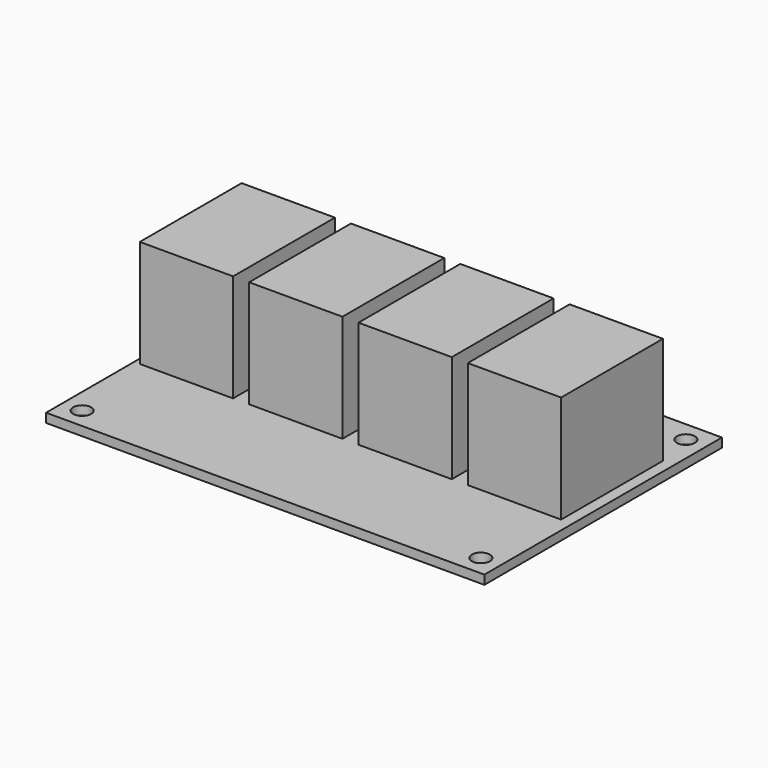
from build123d import *

# Parameters (mm, degrees)
SKETCH_W            = 77.5
SKETCH_H            = 52.5
SKETCH_R            = 1.6
PAD_DEPTH           = 1.6
SKETCH004_W         = 16.5
SKETCH004_H         = 22.5
PAD004_DEPTH        = 19
LINEARPATTERN_COUNT = 4
LINEARPATTERN_PITCH = 19.333333


with BuildPart() as part:
    # Sketch → Pad (new body)
    with BuildSketch(Plane.XY):
        Rectangle(SKETCH_W, SKETCH_H)
        with Locations((-35.25, 22.65)):
            Circle(SKETCH_R, mode=Mode.SUBTRACT)
        with Locations((-35.25, -22.65)):
            Circle(SKETCH_R, mode=Mode.SUBTRACT)
        with Locations((35.25, 22.65)):
            Circle(SKETCH_R, mode=Mode.SUBTRACT)
        with Locations((35.25, -22.65)):
            Circle(SKETCH_R, mode=Mode.SUBTRACT)
    extrude(amount=PAD_DEPTH)

    # Sketch004 (on Face10 of Pad) → Pad004 (join)
    with BuildSketch(Plane.XY.offset(1.6)):
        with Locations((-29.499962, 4.46239)):
            Rectangle(SKETCH004_W, SKETCH004_H)
    pad004 = extrude(amount=PAD004_DEPTH)

    # LinearPattern: Pad004 ×4
    with Locations(*[(i * LINEARPATTERN_PITCH, 0, 0) for i in range(1, LINEARPATTERN_COUNT)]):
        add(pad004)


solid = part.part
